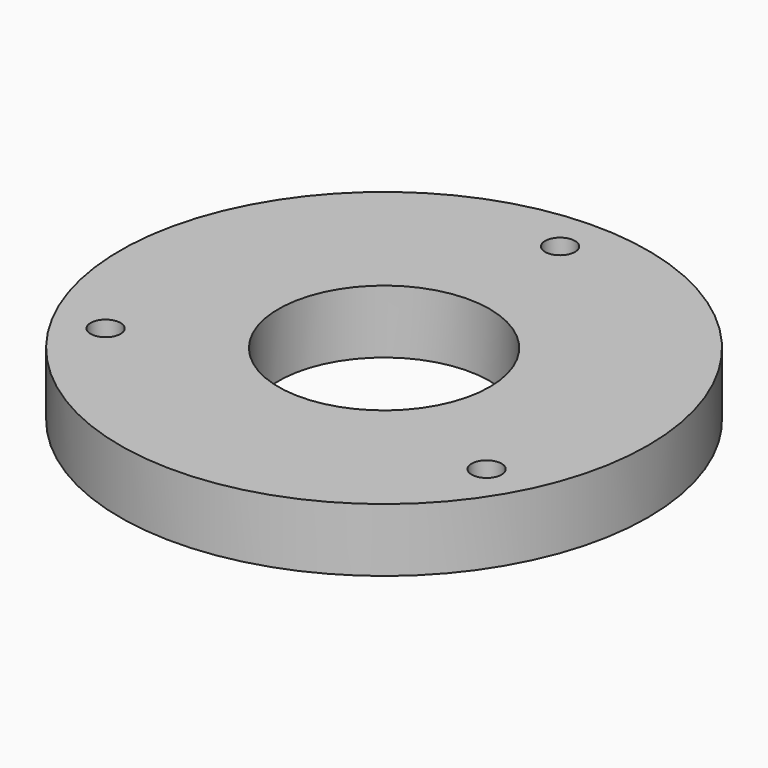
from build123d import *

# Parameters (mm, degrees)
F0_R     = 75
F0_R_2   = 1.5
F0_R_3   = 30
F1_DEPTH = 18
F2_R     = 4.25
F3_DEPTH = 5


with BuildPart() as f1:
    # F0 (on Top) → F1 (new body)
    with BuildSketch(Plane.XY):
        Circle(F0_R)
        with Locations((-54.126588, -31.25)):
            Circle(F0_R_2, mode=Mode.SUBTRACT)
        with Locations((54.126588, -31.25)):
            Circle(F0_R_2, mode=Mode.SUBTRACT)
        Circle(F0_R_3, mode=Mode.SUBTRACT)
        with Locations((0, 62.5)):
            Circle(F0_R_2, mode=Mode.SUBTRACT)
    extrude(amount=F1_DEPTH)

    # F2 (on face) → F3 (cut)
    with BuildSketch(Plane.XY.offset(18)):
        with Locations((-54.126588, -31.25)):
            Circle(F2_R)
        with Locations((54.126588, -31.25)):
            Circle(F2_R)
        with Locations((0, 62.5)):
            Circle(F2_R)
    extrude(amount=-F3_DEPTH, mode=Mode.SUBTRACT)


solid = f1.part
